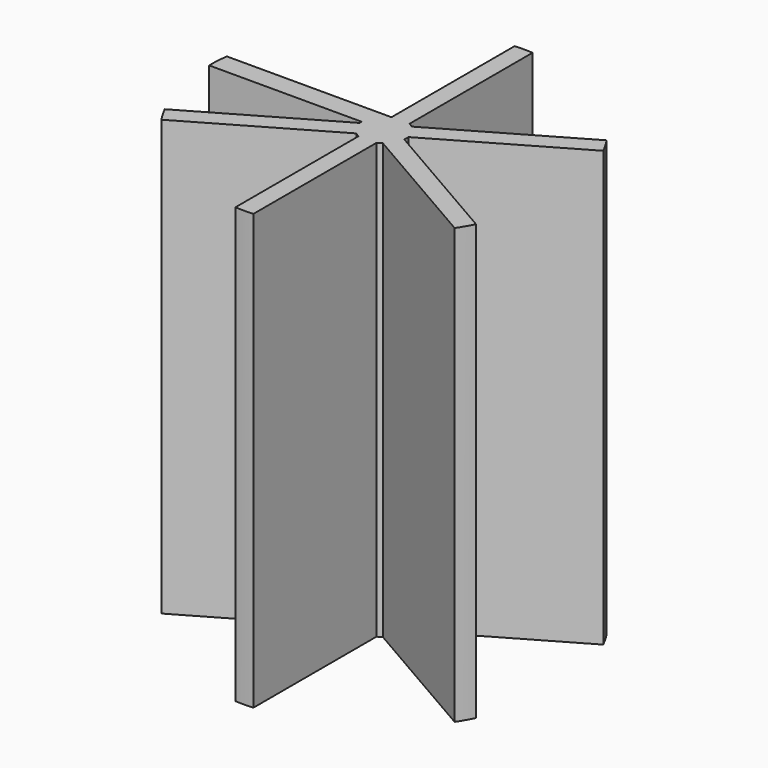
from build123d import *

# Parameters (mm, degrees)
F1_DEPTH  = 97
F2_W      = 36.729833
F2_H      = 4
F3_DEPTH  = 4
F5_DEPTH  = 36.75
F6_W      = 30.366108
F6_H      = 4
F7_DEPTH  = 4
F9_DEPTH  = 36.75
F11_DEPTH = 100
F13_DEPTH = 3


with BuildPart() as f1:
    # F0 (on Top) → F1 (new body)
    with BuildSketch(Plane.XY):
        with BuildLine():
            Line((2, 4.582576), (2, 38.948684))
            ThreePointArc((2, 38.948684), (0, 39), (-2, 38.948684))
            Line((-2, 38.948684), (-2, 4.582576))
            Line((-2, 4.582576), (-38.729833, 4.582576))
            ThreePointArc((-38.729833, 4.582576), (-38.965475, 2.297216), (-39, 0))
            Line((-39, 0), (-5, 0))
            ThreePointArc((-5, 0), (-4.992151, -0.280058), (-4.968627, -0.559237))
            Line((-4.968627, -0.559237), (-34.73055, -17.742291))
            ThreePointArc((-34.73055, -17.742291), (-33.774991, -19.5), (-32.73055, -21.206393))
            Line((-32.73055, -21.206393), (-2.968627, -4.023339))
            ThreePointArc((-2.968627, -4.023339), (-2.5, -4.330127), (-2, -4.582576))
            Line((-2, -4.582576), (-2, -38.948684))
            ThreePointArc((-2, -38.948684), (0, -39), (2, -38.948684))
            Line((2, -38.948684), (2, -4.582576))
            ThreePointArc((2, -4.582576), (2.5, -4.330127), (2.968627, -4.023339))
            Line((2.968627, -4.023339), (32.73055, -21.206393))
            ThreePointArc((32.73055, -21.206393), (33.774991, -19.5), (34.73055, -17.742291))
            Line((34.73055, -17.742291), (4.968627, -0.559237))
            ThreePointArc((4.968627, -0.559237), (5, 0), (4.968627, 0.559237))
            Line((4.968627, 0.559237), (34.73055, 17.742291))
            ThreePointArc((34.73055, 17.742291), (33.774991, 19.5), (32.73055, 21.206393))
            Line((32.73055, 21.206393), (2.968627, 4.023339))
            ThreePointArc((2.968627, 4.023339), (2.5, 4.330127), (2, 4.582576))
        make_face()
    extrude(amount=-F1_DEPTH)

    # F2 (on face) → F3 (join)
    with BuildSketch(Plane(origin=(0, 4.582576, 0), x_dir=(-1, 0, 0), z_dir=(0, 1, 0))):
        with Locations((20.364916, -46.5)):
            Rectangle(F2_W, F2_H)
    extrude(amount=F3_DEPTH)

    # F4 (on face) → F5 (join)
    with BuildSketch(Plane(origin=(-38.729833, 0, 0), x_dir=(0, -1, 0), z_dir=(-1, 0, 0))):
        Polygon((-4.582576, -37.929308), (-8.582576, -44.5), (-4.582576, -44.5), align=None)
    extrude(amount=-F5_DEPTH)

    # F6 (on face) → F7 (join)
    with BuildSketch(Plane(origin=(-2, 0, 0), x_dir=(0, -1, 0), z_dir=(-1, 0, 0))):
        with Locations((-23.76563, -46.5)):
            Rectangle(F6_W, F6_H)
    extrude(amount=F7_DEPTH)

    # F8 (on face) → F9 (join)
    with BuildSketch(Plane(origin=(0, 38.948684, 0), x_dir=(-1, 0, 0), z_dir=(0, 1, 0))):
        Polygon((2, -44.5), (6, -44.5), (2, -38.661673), align=None)
    extrude(amount=-F9_DEPTH)

    # F10 (on face) → F11 (cut)
    with BuildSketch(Plane(origin=(0, 0, -48.5), x_dir=(1, 0, 0), z_dir=(0, 0, -1))):
        with BuildLine():
            ThreePointArc((-2, -38.948684), (-26.645585, -28.478287), (-38.729833, -4.582576))
            Line((-38.729833, -4.582576), (-40.088896, -48.13461))
            Line((-40.088896, -48.13461), (-2, -38.948684))
        make_face()
    extrude(amount=-F11_DEPTH, mode=Mode.SUBTRACT)


with BuildPart() as f13:
    # F12 (on face) → F13 (new body)
    with BuildSketch(Plane(origin=(0, 0, -48.5), x_dir=(1, 0, 0), z_dir=(0, 0, -1))):
        with BuildLine():
            Line((-2.770089, -5.435789), (-38.619324, -5.435789))
            ThreePointArc((-38.619324, -5.435789), (-26.613141, -28.508608), (-2.770089, -38.901499))
            Line((-2.770089, -38.901499), (-2.770089, -5.435789))
        make_face()
    extrude(amount=F13_DEPTH)


solid = Compound([f1.part, f13.part])
